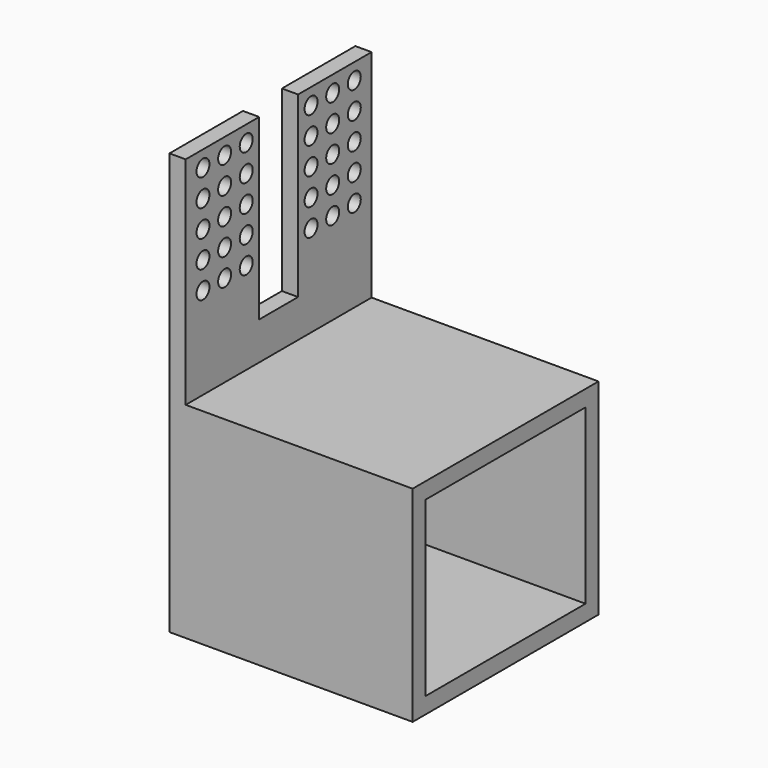
from build123d import *

# Parameters (mm, degrees)
BOX004_W                = 3
BOX004_H                = 9
BOX004_DEPTH            = 33
CYLINDER034_R           = 1.5
CYLINDER034_DEPTH       = 10
CYLINDER034_PITCH_ANGLE = -90
CYLINDER035_R           = 1.5
CYLINDER035_DEPTH       = 10
CYLINDER035_PITCH_ANGLE = -90
CYLINDER036_R           = 1.5
CYLINDER036_DEPTH       = 10
CYLINDER036_PITCH_ANGLE = -90
CYLINDER037_R           = 1.5
CYLINDER037_DEPTH       = 10
CYLINDER037_PITCH_ANGLE = -90
CYLINDER038_R           = 1.5
CYLINDER038_DEPTH       = 10
CYLINDER038_PITCH_ANGLE = -90
CYLINDER039_R           = 1.5
CYLINDER039_DEPTH       = 10
CYLINDER039_PITCH_ANGLE = -90
CYLINDER040_R           = 1.5
CYLINDER040_DEPTH       = 10
CYLINDER040_PITCH_ANGLE = -90
CYLINDER033_R           = 1.5
CYLINDER033_DEPTH       = 10
CYLINDER033_PITCH_ANGLE = -90
BOX003_W                = 2
BOX003_H                = 43
BOX003_DEPTH            = 40
CYLINDER031_R           = 1.5
CYLINDER031_DEPTH       = 10
CYLINDER031_PITCH_ANGLE = -90
CYLINDER032_R           = 1.5
CYLINDER032_DEPTH       = 10
CYLINDER032_PITCH_ANGLE = -90
CYLINDER001_R           = 1.5
CYLINDER001_DEPTH       = 10
CYLINDER001_PITCH_ANGLE = -90
CYLINDER002_R           = 1.5
CYLINDER002_DEPTH       = 10
CYLINDER002_PITCH_ANGLE = -90
CYLINDER003_R           = 1.5
CYLINDER003_DEPTH       = 10
CYLINDER003_PITCH_ANGLE = -90
CYLINDER004_R           = 1.5
CYLINDER004_DEPTH       = 10
CYLINDER004_PITCH_ANGLE = -90
CYLINDER005_R           = 1.5
CYLINDER005_DEPTH       = 10
CYLINDER005_PITCH_ANGLE = -90
CYLINDER006_R           = 1.5
CYLINDER006_DEPTH       = 10
CYLINDER006_PITCH_ANGLE = -90
CYLINDER007_R           = 1.5
CYLINDER007_DEPTH       = 10
CYLINDER007_PITCH_ANGLE = -90
CYLINDER008_R           = 1.5
CYLINDER008_DEPTH       = 10
CYLINDER008_PITCH_ANGLE = -90
CYLINDER009_R           = 1.5
CYLINDER009_DEPTH       = 10
CYLINDER009_PITCH_ANGLE = -90
CYLINDER010_R           = 1.5
CYLINDER010_DEPTH       = 10
CYLINDER010_PITCH_ANGLE = -90
CYLINDER011_R           = 1.5
CYLINDER011_DEPTH       = 10
CYLINDER011_PITCH_ANGLE = -90
CYLINDER012_R           = 1.5
CYLINDER012_DEPTH       = 10
CYLINDER012_PITCH_ANGLE = -90
CYLINDER013_R           = 1.5
CYLINDER013_DEPTH       = 10
CYLINDER013_PITCH_ANGLE = -90
CYLINDER017_R           = 1.5
CYLINDER017_DEPTH       = 10
CYLINDER017_PITCH_ANGLE = -90
CYLINDER018_R           = 1.5
CYLINDER018_DEPTH       = 10
CYLINDER018_PITCH_ANGLE = -90
CYLINDER019_R           = 1.5
CYLINDER019_DEPTH       = 10
CYLINDER019_PITCH_ANGLE = -90
CYLINDER020_R           = 1.5
CYLINDER020_DEPTH       = 10
CYLINDER020_PITCH_ANGLE = -90
CYLINDER021_R           = 1.5
CYLINDER021_DEPTH       = 10
CYLINDER021_PITCH_ANGLE = -90
CYLINDER022_R           = 1.5
CYLINDER022_DEPTH       = 10
CYLINDER022_PITCH_ANGLE = -90
CYLINDER023_R           = 1.5
CYLINDER023_DEPTH       = 10
CYLINDER023_PITCH_ANGLE = -90
CYLINDER024_R           = 1.5
CYLINDER024_DEPTH       = 10
CYLINDER024_PITCH_ANGLE = -90
CYLINDER025_R           = 1.5
CYLINDER025_DEPTH       = 10
CYLINDER025_PITCH_ANGLE = -90
CYLINDER026_R           = 1.5
CYLINDER026_DEPTH       = 10
CYLINDER026_PITCH_ANGLE = -90
CYLINDER027_R           = 1.5
CYLINDER027_DEPTH       = 10
CYLINDER027_PITCH_ANGLE = -90
CYLINDER028_R           = 1.5
CYLINDER028_DEPTH       = 10
CYLINDER028_PITCH_ANGLE = -90
CYLINDER029_R           = 1.5
CYLINDER029_DEPTH       = 10
CYLINDER029_PITCH_ANGLE = -90
CYLINDER030_R           = 1.5
CYLINDER030_DEPTH       = 10
CYLINDER030_PITCH_ANGLE = -90
CYLINDER014_R           = 1.5
CYLINDER014_DEPTH       = 10
CYLINDER014_PITCH_ANGLE = -90
CYLINDER015_R           = 1.5
CYLINDER015_DEPTH       = 10
CYLINDER015_PITCH_ANGLE = -90
CYLINDER016_R           = 1.5
CYLINDER016_DEPTH       = 10
CYLINDER016_PITCH_ANGLE = -90
CYLINDER_R              = 1.5
CYLINDER_DEPTH          = 10
CYLINDER_PITCH_ANGLE    = -90
BOX002_W                = 5
BOX002_H                = 43
BOX002_DEPTH            = 40
BOX_W                   = 42
BOX_H                   = 37
BOX_DEPTH               = 32
BOX001_W                = 45
BOX001_H                = 43
BOX001_DEPTH            = 38


with BuildPart() as cube004:
    # Box004 → Box004 (new body)
    with BuildSketch(Plane(origin=(0, 17, 45), x_dir=(1, 0, 0), z_dir=(0, 0, 1))):
        with Locations((1.5, 4.5)):
            Rectangle(BOX004_W, BOX004_H)
    extrude(amount=BOX004_DEPTH)


with BuildPart() as cylinder034:
    # Cylinder034 → Cylinder034 (new body)
    with BuildSketch(Plane.XY):
        Circle(CYLINDER034_R)
    extrude(amount=CYLINDER034_DEPTH)


with BuildPart() as cylinder034_1:
    # Cylinder034 pitch: moved
    add(cylinder034.part.rotate(Axis((0, 0, 0), (0, 1, 0)), CYLINDER034_PITCH_ANGLE))


with BuildPart() as cylinder034_2:
    # Cylinder034 placement: moved
    add(cylinder034_1.part.moved(Location((5, 9, 75))))


with BuildPart() as cylinder035:
    # Cylinder035 → Cylinder035 (new body)
    with BuildSketch(Plane.XY):
        Circle(CYLINDER035_R)
    extrude(amount=CYLINDER035_DEPTH)


with BuildPart() as cylinder035_1:
    # Cylinder035 pitch: moved
    add(cylinder035.part.rotate(Axis((0, 0, 0), (0, 1, 0)), CYLINDER035_PITCH_ANGLE))


with BuildPart() as cylinder035_2:
    # Cylinder035 placement: moved
    add(cylinder035_1.part.moved(Location((5, 14, 75))))


with BuildPart() as cylinder036:
    # Cylinder036 → Cylinder036 (new body)
    with BuildSketch(Plane.XY):
        Circle(CYLINDER036_R)
    extrude(amount=CYLINDER036_DEPTH)


with BuildPart() as cylinder036_1:
    # Cylinder036 pitch: moved
    add(cylinder036.part.rotate(Axis((0, 0, 0), (0, 1, 0)), CYLINDER036_PITCH_ANGLE))


with BuildPart() as cylinder036_2:
    # Cylinder036 placement: moved
    add(cylinder036_1.part.moved(Location((5, 19, 75))))


with BuildPart() as cylinder037:
    # Cylinder037 → Cylinder037 (new body)
    with BuildSketch(Plane.XY):
        Circle(CYLINDER037_R)
    extrude(amount=CYLINDER037_DEPTH)


with BuildPart() as cylinder037_1:
    # Cylinder037 pitch: moved
    add(cylinder037.part.rotate(Axis((0, 0, 0), (0, 1, 0)), CYLINDER037_PITCH_ANGLE))


with BuildPart() as cylinder037_2:
    # Cylinder037 placement: moved
    add(cylinder037_1.part.moved(Location((5, 24, 75))))


with BuildPart() as cylinder038:
    # Cylinder038 → Cylinder038 (new body)
    with BuildSketch(Plane.XY):
        Circle(CYLINDER038_R)
    extrude(amount=CYLINDER038_DEPTH)


with BuildPart() as cylinder038_1:
    # Cylinder038 pitch: moved
    add(cylinder038.part.rotate(Axis((0, 0, 0), (0, 1, 0)), CYLINDER038_PITCH_ANGLE))


with BuildPart() as cylinder038_2:
    # Cylinder038 placement: moved
    add(cylinder038_1.part.moved(Location((5, 29, 75))))


with BuildPart() as cylinder039:
    # Cylinder039 → Cylinder039 (new body)
    with BuildSketch(Plane.XY):
        Circle(CYLINDER039_R)
    extrude(amount=CYLINDER039_DEPTH)


with BuildPart() as cylinder039_1:
    # Cylinder039 pitch: moved
    add(cylinder039.part.rotate(Axis((0, 0, 0), (0, 1, 0)), CYLINDER039_PITCH_ANGLE))


with BuildPart() as cylinder039_2:
    # Cylinder039 placement: moved
    add(cylinder039_1.part.moved(Location((5, 34, 75))))


with BuildPart() as cylinder040:
    # Cylinder040 → Cylinder040 (new body)
    with BuildSketch(Plane.XY):
        Circle(CYLINDER040_R)
    extrude(amount=CYLINDER040_DEPTH)


with BuildPart() as cylinder040_1:
    # Cylinder040 pitch: moved
    add(cylinder040.part.rotate(Axis((0, 0, 0), (0, 1, 0)), CYLINDER040_PITCH_ANGLE))


with BuildPart() as cylinder040_2:
    # Cylinder040 placement: moved
    add(cylinder040_1.part.moved(Location((5, 39, 75))))


with BuildPart() as cylinder033:
    # Cylinder033 → Cylinder033 (new body)
    with BuildSketch(Plane.XY):
        Circle(CYLINDER033_R)
    extrude(amount=CYLINDER033_DEPTH)


with BuildPart() as cylinder033_1:
    # Cylinder033 pitch: moved
    add(cylinder033.part.rotate(Axis((0, 0, 0), (0, 1, 0)), CYLINDER033_PITCH_ANGLE))


with BuildPart() as cylinder033_2:
    # Cylinder033 placement: moved
    add(cylinder033_1.part.moved(Location((5, 4, 75))))


with BuildPart() as cube003:
    # Box003 → Box003 (new body)
    with BuildSketch(Plane(origin=(3, 0, 38), x_dir=(1, 0, 0), z_dir=(0, 0, 1))):
        with Locations((1, 21.5)):
            Rectangle(BOX003_W, BOX003_H)
    extrude(amount=BOX003_DEPTH)


with BuildPart() as cylinder031:
    # Cylinder031 → Cylinder031 (new body)
    with BuildSketch(Plane.XY):
        Circle(CYLINDER031_R)
    extrude(amount=CYLINDER031_DEPTH)


with BuildPart() as cylinder031_1:
    # Cylinder031 pitch: moved
    add(cylinder031.part.rotate(Axis((0, 0, 0), (0, 1, 0)), CYLINDER031_PITCH_ANGLE))


with BuildPart() as cylinder031_2:
    # Cylinder031 placement: moved
    add(cylinder031_1.part.moved(Location((7, 14, 70))))


with BuildPart() as cylinder032:
    # Cylinder032 → Cylinder032 (new body)
    with BuildSketch(Plane.XY):
        Circle(CYLINDER032_R)
    extrude(amount=CYLINDER032_DEPTH)


with BuildPart() as cylinder032_1:
    # Cylinder032 pitch: moved
    add(cylinder032.part.rotate(Axis((0, 0, 0), (0, 1, 0)), CYLINDER032_PITCH_ANGLE))


with BuildPart() as cylinder032_2:
    # Cylinder032 placement: moved
    add(cylinder032_1.part.moved(Location((7, 9, 55))))


with BuildPart() as cylinder001:
    # Cylinder001 → Cylinder001 (new body)
    with BuildSketch(Plane.XY):
        Circle(CYLINDER001_R)
    extrude(amount=CYLINDER001_DEPTH)


with BuildPart() as cylinder001_1:
    # Cylinder001 pitch: moved
    add(cylinder001.part.rotate(Axis((0, 0, 0), (0, 1, 0)), CYLINDER001_PITCH_ANGLE))


with BuildPart() as cylinder001_2:
    # Cylinder001 placement: moved
    add(cylinder001_1.part.moved(Location((7, 9, 60))))


with BuildPart() as cylinder002:
    # Cylinder002 → Cylinder002 (new body)
    with BuildSketch(Plane.XY):
        Circle(CYLINDER002_R)
    extrude(amount=CYLINDER002_DEPTH)


with BuildPart() as cylinder002_1:
    # Cylinder002 pitch: moved
    add(cylinder002.part.rotate(Axis((0, 0, 0), (0, 1, 0)), CYLINDER002_PITCH_ANGLE))


with BuildPart() as cylinder002_2:
    # Cylinder002 placement: moved
    add(cylinder002_1.part.moved(Location((7, 19, 70))))


with BuildPart() as cylinder003:
    # Cylinder003 → Cylinder003 (new body)
    with BuildSketch(Plane.XY):
        Circle(CYLINDER003_R)
    extrude(amount=CYLINDER003_DEPTH)


with BuildPart() as cylinder003_1:
    # Cylinder003 pitch: moved
    add(cylinder003.part.rotate(Axis((0, 0, 0), (0, 1, 0)), CYLINDER003_PITCH_ANGLE))


with BuildPart() as cylinder003_2:
    # Cylinder003 placement: moved
    add(cylinder003_1.part.moved(Location((7, 24, 70))))


with BuildPart() as cylinder004:
    # Cylinder004 → Cylinder004 (new body)
    with BuildSketch(Plane.XY):
        Circle(CYLINDER004_R)
    extrude(amount=CYLINDER004_DEPTH)


with BuildPart() as cylinder004_1:
    # Cylinder004 pitch: moved
    add(cylinder004.part.rotate(Axis((0, 0, 0), (0, 1, 0)), CYLINDER004_PITCH_ANGLE))


with BuildPart() as cylinder004_2:
    # Cylinder004 placement: moved
    add(cylinder004_1.part.moved(Location((7, 4, 70))))


with BuildPart() as cylinder005:
    # Cylinder005 → Cylinder005 (new body)
    with BuildSketch(Plane.XY):
        Circle(CYLINDER005_R)
    extrude(amount=CYLINDER005_DEPTH)


with BuildPart() as cylinder005_1:
    # Cylinder005 pitch: moved
    add(cylinder005.part.rotate(Axis((0, 0, 0), (0, 1, 0)), CYLINDER005_PITCH_ANGLE))


with BuildPart() as cylinder005_2:
    # Cylinder005 placement: moved
    add(cylinder005_1.part.moved(Location((7, 29, 70))))


with BuildPart() as cylinder006:
    # Cylinder006 → Cylinder006 (new body)
    with BuildSketch(Plane.XY):
        Circle(CYLINDER006_R)
    extrude(amount=CYLINDER006_DEPTH)


with BuildPart() as cylinder006_1:
    # Cylinder006 pitch: moved
    add(cylinder006.part.rotate(Axis((0, 0, 0), (0, 1, 0)), CYLINDER006_PITCH_ANGLE))


with BuildPart() as cylinder006_2:
    # Cylinder006 placement: moved
    add(cylinder006_1.part.moved(Location((7, 34, 70))))


with BuildPart() as cylinder007:
    # Cylinder007 → Cylinder007 (new body)
    with BuildSketch(Plane.XY):
        Circle(CYLINDER007_R)
    extrude(amount=CYLINDER007_DEPTH)


with BuildPart() as cylinder007_1:
    # Cylinder007 pitch: moved
    add(cylinder007.part.rotate(Axis((0, 0, 0), (0, 1, 0)), CYLINDER007_PITCH_ANGLE))


with BuildPart() as cylinder007_2:
    # Cylinder007 placement: moved
    add(cylinder007_1.part.moved(Location((7, 39, 70))))


with BuildPart() as cylinder008:
    # Cylinder008 → Cylinder008 (new body)
    with BuildSketch(Plane.XY):
        Circle(CYLINDER008_R)
    extrude(amount=CYLINDER008_DEPTH)


with BuildPart() as cylinder008_1:
    # Cylinder008 pitch: moved
    add(cylinder008.part.rotate(Axis((0, 0, 0), (0, 1, 0)), CYLINDER008_PITCH_ANGLE))


with BuildPart() as cylinder008_2:
    # Cylinder008 placement: moved
    add(cylinder008_1.part.moved(Location((7, 4, 65))))


with BuildPart() as cylinder009:
    # Cylinder009 → Cylinder009 (new body)
    with BuildSketch(Plane.XY):
        Circle(CYLINDER009_R)
    extrude(amount=CYLINDER009_DEPTH)


with BuildPart() as cylinder009_1:
    # Cylinder009 pitch: moved
    add(cylinder009.part.rotate(Axis((0, 0, 0), (0, 1, 0)), CYLINDER009_PITCH_ANGLE))


with BuildPart() as cylinder009_2:
    # Cylinder009 placement: moved
    add(cylinder009_1.part.moved(Location((7, 14, 65))))


with BuildPart() as cylinder010:
    # Cylinder010 → Cylinder010 (new body)
    with BuildSketch(Plane.XY):
        Circle(CYLINDER010_R)
    extrude(amount=CYLINDER010_DEPTH)


with BuildPart() as cylinder010_1:
    # Cylinder010 pitch: moved
    add(cylinder010.part.rotate(Axis((0, 0, 0), (0, 1, 0)), CYLINDER010_PITCH_ANGLE))


with BuildPart() as cylinder010_2:
    # Cylinder010 placement: moved
    add(cylinder010_1.part.moved(Location((7, 19, 65))))


with BuildPart() as cylinder011:
    # Cylinder011 → Cylinder011 (new body)
    with BuildSketch(Plane.XY):
        Circle(CYLINDER011_R)
    extrude(amount=CYLINDER011_DEPTH)


with BuildPart() as cylinder011_1:
    # Cylinder011 pitch: moved
    add(cylinder011.part.rotate(Axis((0, 0, 0), (0, 1, 0)), CYLINDER011_PITCH_ANGLE))


with BuildPart() as cylinder011_2:
    # Cylinder011 placement: moved
    add(cylinder011_1.part.moved(Location((7, 24, 65))))


with BuildPart() as cylinder012:
    # Cylinder012 → Cylinder012 (new body)
    with BuildSketch(Plane.XY):
        Circle(CYLINDER012_R)
    extrude(amount=CYLINDER012_DEPTH)


with BuildPart() as cylinder012_1:
    # Cylinder012 pitch: moved
    add(cylinder012.part.rotate(Axis((0, 0, 0), (0, 1, 0)), CYLINDER012_PITCH_ANGLE))


with BuildPart() as cylinder012_2:
    # Cylinder012 placement: moved
    add(cylinder012_1.part.moved(Location((7, 4, 65))))


with BuildPart() as cylinder013:
    # Cylinder013 → Cylinder013 (new body)
    with BuildSketch(Plane.XY):
        Circle(CYLINDER013_R)
    extrude(amount=CYLINDER013_DEPTH)


with BuildPart() as cylinder013_1:
    # Cylinder013 pitch: moved
    add(cylinder013.part.rotate(Axis((0, 0, 0), (0, 1, 0)), CYLINDER013_PITCH_ANGLE))


with BuildPart() as cylinder013_2:
    # Cylinder013 placement: moved
    add(cylinder013_1.part.moved(Location((7, 29, 65))))


with BuildPart() as cylinder017:
    # Cylinder017 → Cylinder017 (new body)
    with BuildSketch(Plane.XY):
        Circle(CYLINDER017_R)
    extrude(amount=CYLINDER017_DEPTH)


with BuildPart() as cylinder017_1:
    # Cylinder017 pitch: moved
    add(cylinder017.part.rotate(Axis((0, 0, 0), (0, 1, 0)), CYLINDER017_PITCH_ANGLE))


with BuildPart() as cylinder017_2:
    # Cylinder017 placement: moved
    add(cylinder017_1.part.moved(Location((7, 14, 60))))


with BuildPart() as cylinder018:
    # Cylinder018 → Cylinder018 (new body)
    with BuildSketch(Plane.XY):
        Circle(CYLINDER018_R)
    extrude(amount=CYLINDER018_DEPTH)


with BuildPart() as cylinder018_1:
    # Cylinder018 pitch: moved
    add(cylinder018.part.rotate(Axis((0, 0, 0), (0, 1, 0)), CYLINDER018_PITCH_ANGLE))


with BuildPart() as cylinder018_2:
    # Cylinder018 placement: moved
    add(cylinder018_1.part.moved(Location((7, 19, 60))))


with BuildPart() as cylinder019:
    # Cylinder019 → Cylinder019 (new body)
    with BuildSketch(Plane.XY):
        Circle(CYLINDER019_R)
    extrude(amount=CYLINDER019_DEPTH)


with BuildPart() as cylinder019_1:
    # Cylinder019 pitch: moved
    add(cylinder019.part.rotate(Axis((0, 0, 0), (0, 1, 0)), CYLINDER019_PITCH_ANGLE))


with BuildPart() as cylinder019_2:
    # Cylinder019 placement: moved
    add(cylinder019_1.part.moved(Location((7, 24, 60))))


with BuildPart() as cylinder020:
    # Cylinder020 → Cylinder020 (new body)
    with BuildSketch(Plane.XY):
        Circle(CYLINDER020_R)
    extrude(amount=CYLINDER020_DEPTH)


with BuildPart() as cylinder020_1:
    # Cylinder020 pitch: moved
    add(cylinder020.part.rotate(Axis((0, 0, 0), (0, 1, 0)), CYLINDER020_PITCH_ANGLE))


with BuildPart() as cylinder020_2:
    # Cylinder020 placement: moved
    add(cylinder020_1.part.moved(Location((7, 4, 60))))


with BuildPart() as cylinder021:
    # Cylinder021 → Cylinder021 (new body)
    with BuildSketch(Plane.XY):
        Circle(CYLINDER021_R)
    extrude(amount=CYLINDER021_DEPTH)


with BuildPart() as cylinder021_1:
    # Cylinder021 pitch: moved
    add(cylinder021.part.rotate(Axis((0, 0, 0), (0, 1, 0)), CYLINDER021_PITCH_ANGLE))


with BuildPart() as cylinder021_2:
    # Cylinder021 placement: moved
    add(cylinder021_1.part.moved(Location((7, 29, 60))))


with BuildPart() as cylinder022:
    # Cylinder022 → Cylinder022 (new body)
    with BuildSketch(Plane.XY):
        Circle(CYLINDER022_R)
    extrude(amount=CYLINDER022_DEPTH)


with BuildPart() as cylinder022_1:
    # Cylinder022 pitch: moved
    add(cylinder022.part.rotate(Axis((0, 0, 0), (0, 1, 0)), CYLINDER022_PITCH_ANGLE))


with BuildPart() as cylinder022_2:
    # Cylinder022 placement: moved
    add(cylinder022_1.part.moved(Location((7, 34, 60))))


with BuildPart() as cylinder023:
    # Cylinder023 → Cylinder023 (new body)
    with BuildSketch(Plane.XY):
        Circle(CYLINDER023_R)
    extrude(amount=CYLINDER023_DEPTH)


with BuildPart() as cylinder023_1:
    # Cylinder023 pitch: moved
    add(cylinder023.part.rotate(Axis((0, 0, 0), (0, 1, 0)), CYLINDER023_PITCH_ANGLE))


with BuildPart() as cylinder023_2:
    # Cylinder023 placement: moved
    add(cylinder023_1.part.moved(Location((7, 39, 60))))


with BuildPart() as cylinder024:
    # Cylinder024 → Cylinder024 (new body)
    with BuildSketch(Plane.XY):
        Circle(CYLINDER024_R)
    extrude(amount=CYLINDER024_DEPTH)


with BuildPart() as cylinder024_1:
    # Cylinder024 pitch: moved
    add(cylinder024.part.rotate(Axis((0, 0, 0), (0, 1, 0)), CYLINDER024_PITCH_ANGLE))


with BuildPart() as cylinder024_2:
    # Cylinder024 placement: moved
    add(cylinder024_1.part.moved(Location((7, 14, 55))))


with BuildPart() as cylinder025:
    # Cylinder025 → Cylinder025 (new body)
    with BuildSketch(Plane.XY):
        Circle(CYLINDER025_R)
    extrude(amount=CYLINDER025_DEPTH)


with BuildPart() as cylinder025_1:
    # Cylinder025 pitch: moved
    add(cylinder025.part.rotate(Axis((0, 0, 0), (0, 1, 0)), CYLINDER025_PITCH_ANGLE))


with BuildPart() as cylinder025_2:
    # Cylinder025 placement: moved
    add(cylinder025_1.part.moved(Location((7, 19, 55))))


with BuildPart() as cylinder026:
    # Cylinder026 → Cylinder026 (new body)
    with BuildSketch(Plane.XY):
        Circle(CYLINDER026_R)
    extrude(amount=CYLINDER026_DEPTH)


with BuildPart() as cylinder026_1:
    # Cylinder026 pitch: moved
    add(cylinder026.part.rotate(Axis((0, 0, 0), (0, 1, 0)), CYLINDER026_PITCH_ANGLE))


with BuildPart() as cylinder026_2:
    # Cylinder026 placement: moved
    add(cylinder026_1.part.moved(Location((7, 24, 55))))


with BuildPart() as cylinder027:
    # Cylinder027 → Cylinder027 (new body)
    with BuildSketch(Plane.XY):
        Circle(CYLINDER027_R)
    extrude(amount=CYLINDER027_DEPTH)


with BuildPart() as cylinder027_1:
    # Cylinder027 pitch: moved
    add(cylinder027.part.rotate(Axis((0, 0, 0), (0, 1, 0)), CYLINDER027_PITCH_ANGLE))


with BuildPart() as cylinder027_2:
    # Cylinder027 placement: moved
    add(cylinder027_1.part.moved(Location((7, 4, 55))))


with BuildPart() as cylinder028:
    # Cylinder028 → Cylinder028 (new body)
    with BuildSketch(Plane.XY):
        Circle(CYLINDER028_R)
    extrude(amount=CYLINDER028_DEPTH)


with BuildPart() as cylinder028_1:
    # Cylinder028 pitch: moved
    add(cylinder028.part.rotate(Axis((0, 0, 0), (0, 1, 0)), CYLINDER028_PITCH_ANGLE))


with BuildPart() as cylinder028_2:
    # Cylinder028 placement: moved
    add(cylinder028_1.part.moved(Location((7, 29, 55))))


with BuildPart() as cylinder029:
    # Cylinder029 → Cylinder029 (new body)
    with BuildSketch(Plane.XY):
        Circle(CYLINDER029_R)
    extrude(amount=CYLINDER029_DEPTH)


with BuildPart() as cylinder029_1:
    # Cylinder029 pitch: moved
    add(cylinder029.part.rotate(Axis((0, 0, 0), (0, 1, 0)), CYLINDER029_PITCH_ANGLE))


with BuildPart() as cylinder029_2:
    # Cylinder029 placement: moved
    add(cylinder029_1.part.moved(Location((7, 34, 55))))


with BuildPart() as cylinder030:
    # Cylinder030 → Cylinder030 (new body)
    with BuildSketch(Plane.XY):
        Circle(CYLINDER030_R)
    extrude(amount=CYLINDER030_DEPTH)


with BuildPart() as cylinder030_1:
    # Cylinder030 pitch: moved
    add(cylinder030.part.rotate(Axis((0, 0, 0), (0, 1, 0)), CYLINDER030_PITCH_ANGLE))


with BuildPart() as cylinder030_2:
    # Cylinder030 placement: moved
    add(cylinder030_1.part.moved(Location((7, 39, 55))))


with BuildPart() as cylinder014:
    # Cylinder014 → Cylinder014 (new body)
    with BuildSketch(Plane.XY):
        Circle(CYLINDER014_R)
    extrude(amount=CYLINDER014_DEPTH)


with BuildPart() as cylinder014_1:
    # Cylinder014 pitch: moved
    add(cylinder014.part.rotate(Axis((0, 0, 0), (0, 1, 0)), CYLINDER014_PITCH_ANGLE))


with BuildPart() as cylinder014_2:
    # Cylinder014 placement: moved
    add(cylinder014_1.part.moved(Location((7, 34, 65))))


with BuildPart() as cylinder015:
    # Cylinder015 → Cylinder015 (new body)
    with BuildSketch(Plane.XY):
        Circle(CYLINDER015_R)
    extrude(amount=CYLINDER015_DEPTH)


with BuildPart() as cylinder015_1:
    # Cylinder015 pitch: moved
    add(cylinder015.part.rotate(Axis((0, 0, 0), (0, 1, 0)), CYLINDER015_PITCH_ANGLE))


with BuildPart() as cylinder015_2:
    # Cylinder015 placement: moved
    add(cylinder015_1.part.moved(Location((7, 39, 65))))


with BuildPart() as cylinder016:
    # Cylinder016 → Cylinder016 (new body)
    with BuildSketch(Plane.XY):
        Circle(CYLINDER016_R)
    extrude(amount=CYLINDER016_DEPTH)


with BuildPart() as cylinder016_1:
    # Cylinder016 pitch: moved
    add(cylinder016.part.rotate(Axis((0, 0, 0), (0, 1, 0)), CYLINDER016_PITCH_ANGLE))


with BuildPart() as cylinder016_2:
    # Cylinder016 placement: moved
    add(cylinder016_1.part.moved(Location((7, 9, 65))))


with BuildPart() as cylinder:
    # Cylinder → Cylinder (new body)
    with BuildSketch(Plane.XY):
        Circle(CYLINDER_R)
    extrude(amount=CYLINDER_DEPTH)


with BuildPart() as cylinder_1:
    # Cylinder pitch: moved
    add(cylinder.part.rotate(Axis((0, 0, 0), (0, 1, 0)), CYLINDER_PITCH_ANGLE))


with BuildPart() as cylinder_2:
    # Cylinder placement: moved
    add(cylinder_1.part.moved(Location((7, 9, 70))))


with BuildPart() as cut034:
    # Box002 → Box002 (new body)
    with BuildSketch(Plane.XY.offset(38)):
        with Locations((2.5, 21.5)):
            Rectangle(BOX002_W, BOX002_H)
    extrude(amount=BOX002_DEPTH)

    # Cut001: cut Cylinder
    add(cylinder_2.part, mode=Mode.SUBTRACT)

    # Cut002: cut Cylinder016
    add(cylinder016_2.part, mode=Mode.SUBTRACT)

    # Cut003: cut Cylinder015
    add(cylinder015_2.part, mode=Mode.SUBTRACT)

    # Cut004: cut Cylinder014
    add(cylinder014_2.part, mode=Mode.SUBTRACT)

    # Cut005: cut Cylinder030
    add(cylinder030_2.part, mode=Mode.SUBTRACT)

    # Cut006: cut Cylinder029
    add(cylinder029_2.part, mode=Mode.SUBTRACT)

    # Cut007: cut Cylinder028
    add(cylinder028_2.part, mode=Mode.SUBTRACT)

    # Cut008: cut Cylinder027
    add(cylinder027_2.part, mode=Mode.SUBTRACT)

    # Cut009: cut Cylinder026
    add(cylinder026_2.part, mode=Mode.SUBTRACT)

    # Cut010: cut Cylinder025
    add(cylinder025_2.part, mode=Mode.SUBTRACT)

    # Cut011: cut Cylinder024
    add(cylinder024_2.part, mode=Mode.SUBTRACT)

    # Cut012: cut Cylinder023
    add(cylinder023_2.part, mode=Mode.SUBTRACT)

    # Cut013: cut Cylinder022
    add(cylinder022_2.part, mode=Mode.SUBTRACT)

    # Cut014: cut Cylinder021
    add(cylinder021_2.part, mode=Mode.SUBTRACT)

    # Cut015: cut Cylinder020
    add(cylinder020_2.part, mode=Mode.SUBTRACT)

    # Cut016: cut Cylinder019
    add(cylinder019_2.part, mode=Mode.SUBTRACT)

    # Cut017: cut Cylinder018
    add(cylinder018_2.part, mode=Mode.SUBTRACT)

    # Cut018: cut Cylinder017
    add(cylinder017_2.part, mode=Mode.SUBTRACT)

    # Cut019: cut Cylinder013
    add(cylinder013_2.part, mode=Mode.SUBTRACT)

    # Cut020: cut Cylinder012
    add(cylinder012_2.part, mode=Mode.SUBTRACT)

    # Cut021: cut Cylinder011
    add(cylinder011_2.part, mode=Mode.SUBTRACT)

    # Cut022: cut Cylinder010
    add(cylinder010_2.part, mode=Mode.SUBTRACT)

    # Cut023: cut Cylinder009
    add(cylinder009_2.part, mode=Mode.SUBTRACT)

    # Cut024: cut Cylinder008
    add(cylinder008_2.part, mode=Mode.SUBTRACT)

    # Cut025: cut Cylinder007
    add(cylinder007_2.part, mode=Mode.SUBTRACT)

    # Cut026: cut Cylinder006
    add(cylinder006_2.part, mode=Mode.SUBTRACT)

    # Cut027: cut Cylinder005
    add(cylinder005_2.part, mode=Mode.SUBTRACT)

    # Cut028: cut Cylinder004
    add(cylinder004_2.part, mode=Mode.SUBTRACT)

    # Cut029: cut Cylinder003
    add(cylinder003_2.part, mode=Mode.SUBTRACT)

    # Cut030: cut Cylinder002
    add(cylinder002_2.part, mode=Mode.SUBTRACT)

    # Cut031: cut Cylinder001
    add(cylinder001_2.part, mode=Mode.SUBTRACT)

    # Cut032: cut Cylinder032
    add(cylinder032_2.part, mode=Mode.SUBTRACT)

    # Cut033: cut Cylinder031
    add(cylinder031_2.part, mode=Mode.SUBTRACT)

    # Cut034: cut Cube003
    add(cube003.part, mode=Mode.SUBTRACT)


with BuildPart() as cube:
    # Box → Box (new body)
    with BuildSketch(Plane(origin=(3, 3, 3), x_dir=(1, 0, 0), z_dir=(0, 0, 1))):
        with Locations((21, 18.5)):
            Rectangle(BOX_W, BOX_H)
    extrude(amount=BOX_DEPTH)


with BuildPart() as cut043:
    # Box001 → Box001 (new body)
    with BuildSketch(Plane.XY):
        with Locations((22.5, 21.5)):
            Rectangle(BOX001_W, BOX001_H)
    extrude(amount=BOX001_DEPTH)

    # Cut: cut Cube
    add(cube.part, mode=Mode.SUBTRACT)

    # Fusion: union Cut034
    add(cut034.part)

    # Cut035: cut Cylinder033
    add(cylinder033_2.part, mode=Mode.SUBTRACT)

    # Cut036: cut Cylinder040
    add(cylinder040_2.part, mode=Mode.SUBTRACT)

    # Cut037: cut Cylinder039
    add(cylinder039_2.part, mode=Mode.SUBTRACT)

    # Cut038: cut Cylinder038
    add(cylinder038_2.part, mode=Mode.SUBTRACT)

    # Cut039: cut Cylinder037
    add(cylinder037_2.part, mode=Mode.SUBTRACT)

    # Cut040: cut Cylinder036
    add(cylinder036_2.part, mode=Mode.SUBTRACT)

    # Cut041: cut Cylinder035
    add(cylinder035_2.part, mode=Mode.SUBTRACT)

    # Cut042: cut Cylinder034
    add(cylinder034_2.part, mode=Mode.SUBTRACT)

    # Cut043: cut Cube004
    add(cube004.part, mode=Mode.SUBTRACT)


solid = cut043.part
